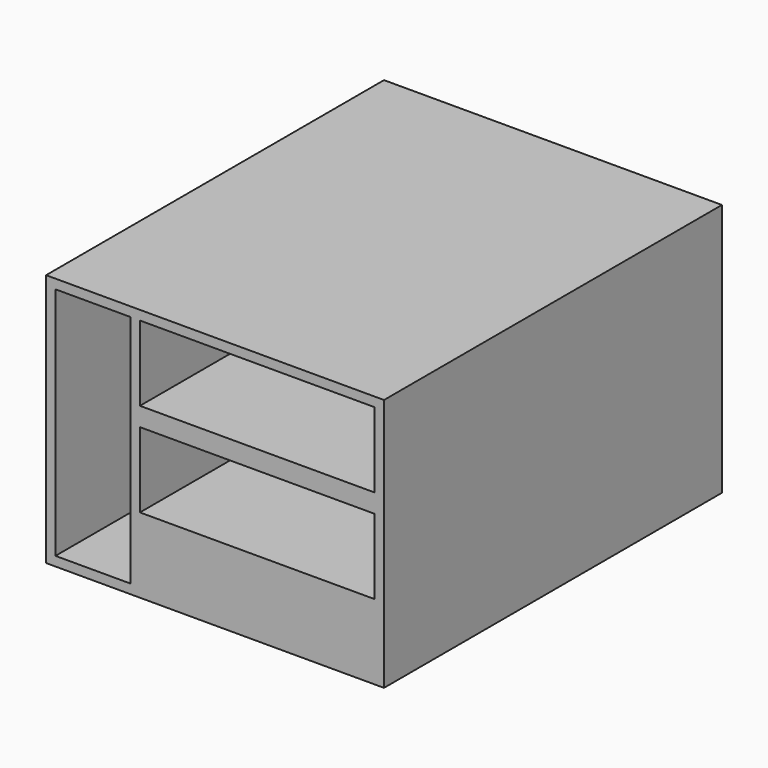
from build123d import *

# Parameters (mm, degrees)
F0_W     = 36
F0_H     = 27
F0_W_2   = 25
F0_H_2   = 8
F0_W_3   = 8
F0_H_3   = 25
F1_DEPTH = 45


with BuildPart() as f1:
    # F0 (on Front) → F1 (new body)
    with BuildSketch(Plane.XZ):
        with Locations((-4.5, 1.5)):
            Rectangle(F0_W, F0_H)
        Rectangle(F0_W_2, F0_H_2, mode=Mode.SUBTRACT)
        with Locations((-17.5, 1.5)):
            Rectangle(F0_W_3, F0_H_3, mode=Mode.SUBTRACT)
        with Locations((0, 10)):
            Rectangle(F0_W_2, F0_H_2, mode=Mode.SUBTRACT)
    extrude(amount=F1_DEPTH)


solid = f1.part
